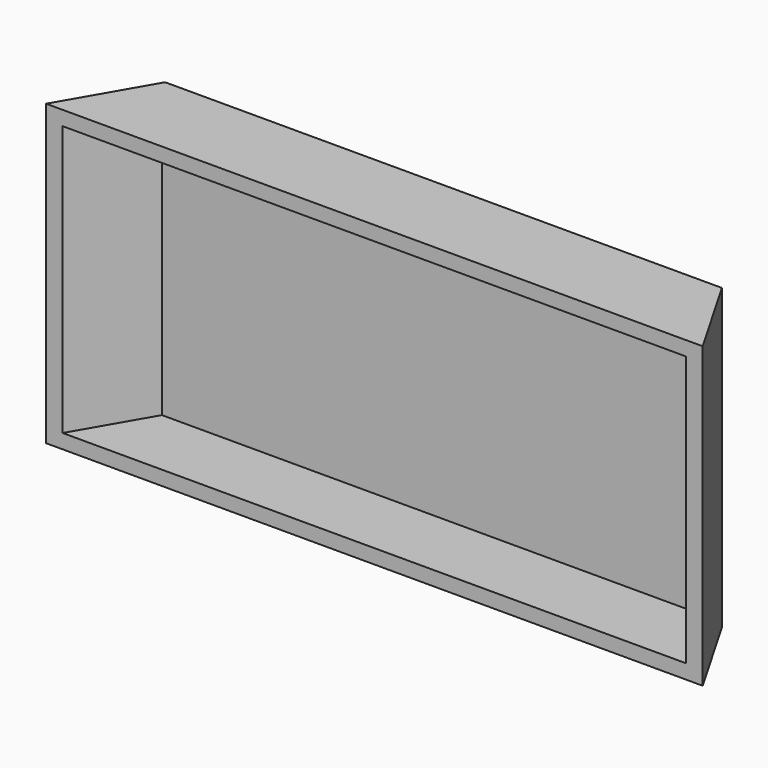
from build123d import *

# Parameters (mm, degrees)
F1_DEPTH = 37.5
F3_DEPTH = 2
F5_DEPTH = 2


with BuildPart() as f1:
    # F0 (on Top) → F1 (new body)
    with BuildSketch(Plane.XY):
        Polygon((-43.273503, -5), (-37.5, 5), (37.5, 5), (43.273503, -5), (45.582904, -5), (38.654701, 7), (-38.654701, 7), (-45.582904, -5), align=None)
    extrude(amount=F1_DEPTH)

    # F2 (on face) → F3 (join)
    with BuildSketch(Plane.XY.offset(37.5)):
        Polygon((-38.654701, 7), (-45.582904, -5), (-43.273503, -5), (-37.5, 5), (37.5, 5), (43.273503, -5), (45.582904, -5), (38.654701, 7), align=None)
        Polygon((-37.5, 5), (-43.273503, -5), (43.273503, -5), (37.5, 5), align=None)
    extrude(amount=F3_DEPTH)

    # F4 (on face) → F5 (join)
    with BuildSketch(Plane(origin=(0, 0, 0), x_dir=(1, 0, 0), z_dir=(0, 0, -1))):
        Polygon((45.582904, 5), (-45.582904, 5), (-38.654701, -7), (38.654701, -7), align=None)
    extrude(amount=F5_DEPTH)


solid = f1.part
